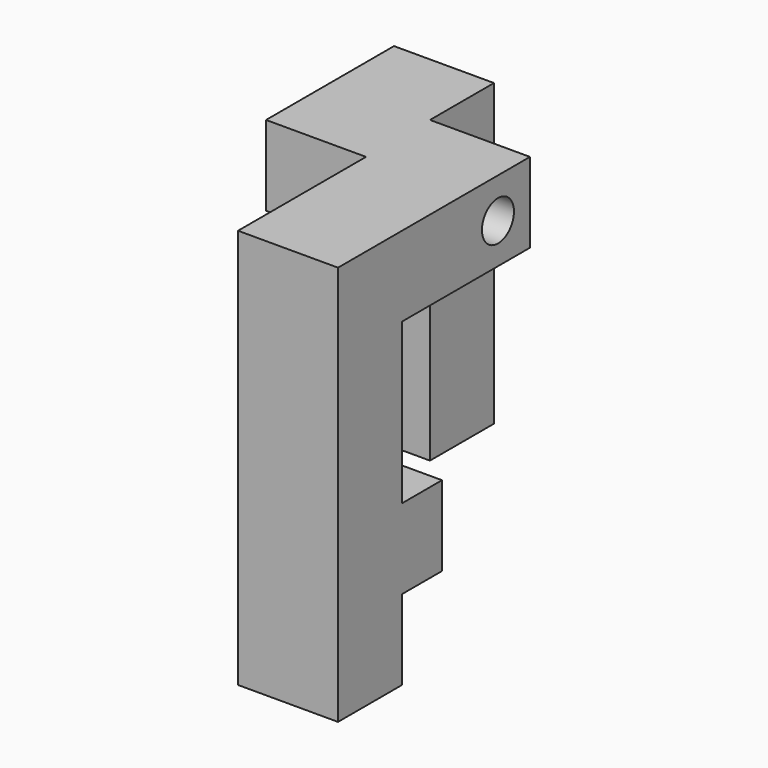
from build123d import *

# Parameters (mm, degrees)
F0_R     = 2
F1_DEPTH = 10
F2_W     = 8
F2_H     = 8
F2_R     = 2
F3_DEPTH = 10


with BuildPart() as f1:
    # F0 (on Right) → F1 (new body)
    with BuildSketch(Plane.YZ):
        Polygon((2.5, -4), (2.5, 4), (-2.5, 4), (-2.5, 20), (13.5, 20), (13.5, 28), (-10.5, 28), (-10.5, -12), (-2.5, -12), (-2.5, -4), align=None)
        with Locations((9.5, 24)):
            Circle(F0_R, mode=Mode.SUBTRACT)
    extrude(amount=F1_DEPTH)

    # F2 (on face) → F3 (join)
    with BuildSketch(Plane(origin=(0, 0, 0), x_dir=(0, -1, 0), z_dir=(-1, 0, 0))):
        Polygon((-13.5, -2), (-13.5, 20), (-13.5, 28), (-21.5, 28), (-21.5, -2), align=None)
        with Locations((-9.5, 24)):
            Rectangle(F2_W, F2_H)
        with Locations((-9.5, 24)):
            Circle(F2_R, mode=Mode.SUBTRACT)
    extrude(amount=F3_DEPTH)


solid = f1.part
